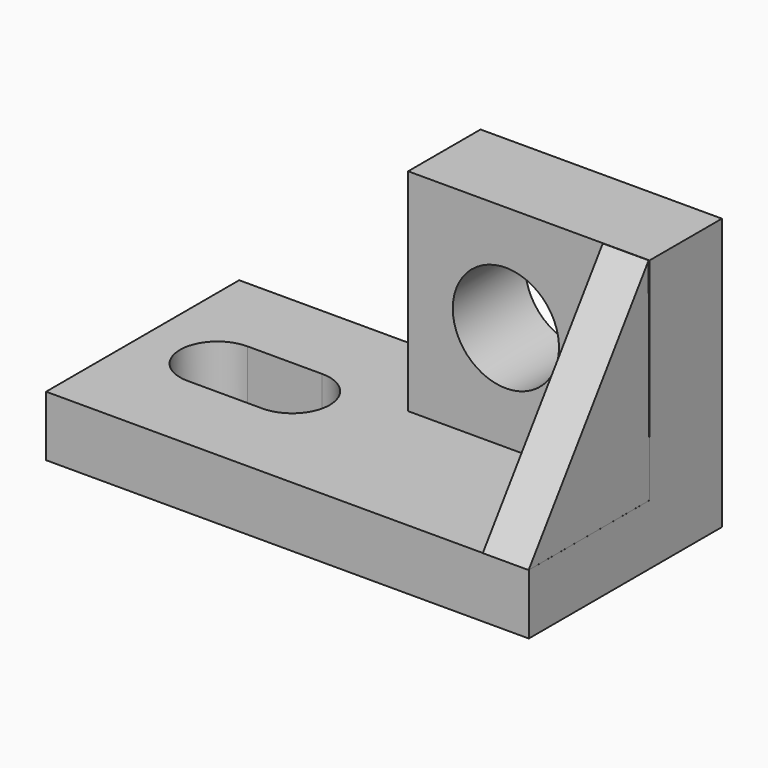
from build123d import *

# Parameters (mm, degrees)
F0_W     = 101.6
F0_H     = 50.8
F1_DEPTH = 12.7
F2_W     = 50.8
F2_H     = 19.05
F3_DEPTH = 44.45
F5_D     = 22.352
F7_DEPTH = 9.652
F9_DEPTH = 25.4


with BuildPart() as f1:
    # F0 (on Top) → F1 (new body)
    with BuildSketch(Plane.XY):
        Rectangle(F0_W, F0_H)
    extrude(amount=F1_DEPTH)

    # F2 (on face) → F3 (join)
    with BuildSketch(Plane.XY.offset(12.7)):
        with Locations((25.4, 15.875)):
            Rectangle(F2_W, F2_H)
    extrude(amount=F3_DEPTH)

    # F5 (through all)
    with Locations(Plane.XZ.offset(-6.35)):
        with Locations((20.574, 34.798)):
            Hole(F5_D / 2)

    # F8 (on face) → F9 (cut)
    with BuildSketch(Plane.XY.offset(12.7)):
        with BuildLine():
            Line((-19.304, 7.874), (-35.052, 7.874))
            ThreePointArc((-35.052, 7.874), (-42.926, 0), (-35.052, -7.874))
            Line((-35.052, -7.874), (-19.304, -7.874))
            ThreePointArc((-19.304, -7.874), (-11.43, 0), (-19.304, 7.874))
        make_face()
    extrude(amount=-F9_DEPTH, mode=Mode.SUBTRACT)


with BuildPart() as f7:
    # F6 (on face) → F7 (new body)
    with BuildSketch(Plane.YZ.offset(50.8)):
        Polygon((6.339903, 12.705463), (6.119906, 57.254743), (-25.449583, 12.705463), align=None)
    extrude(amount=-F7_DEPTH)


solid = Compound([f1.part, f7.part])
